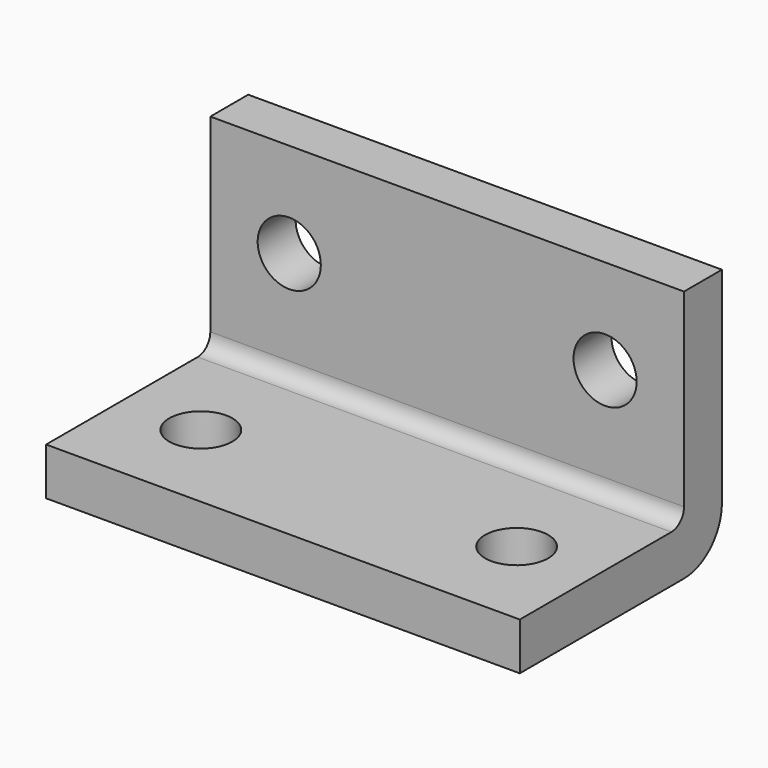
from build123d import *

# Parameters (mm, degrees)
F1_DEPTH = 7.5
F3_R     = 1
F4_DEPTH = 1.5
F2_R     = 1
F5_DEPTH = 1.5


with BuildPart() as f1:
    # F0 (on Right) → F1 (new body, symmetric)
    with BuildSketch(Plane.YZ):
        with BuildLine():
            Line((-8, 0), (-1.5, 0))
            ThreePointArc((-1.5, 0), (-0.43934, 0.43934), (0, 1.5))
            Line((0, 1.5), (0, 8))
            Line((0, 8), (-1.5, 8))
            Line((-1.5, 8), (-1.5, 2))
            ThreePointArc((-1.5, 2), (-1.646447, 1.646447), (-2, 1.5))
            Line((-2, 1.5), (-8, 1.5))
            Line((-8, 1.5), (-8, 0))
        make_face()
    extrude(amount=F1_DEPTH, both=True)

    # F3 (on face) → F4 (cut)
    with BuildSketch(Plane.XZ.offset(1.5)):
        with Locations((-5, 5)):
            Circle(F3_R)
        with Locations((5, 5)):
            Circle(F3_R)
    extrude(amount=-F4_DEPTH, mode=Mode.SUBTRACT)

    # F2 (on face) → F5 (cut)
    with BuildSketch(Plane.XY.offset(1.5)):
        with Locations((5, -5)):
            Circle(F2_R)
        with Locations((-5, -5)):
            Circle(F2_R)
    extrude(amount=-F5_DEPTH, mode=Mode.SUBTRACT)


solid = f1.part
